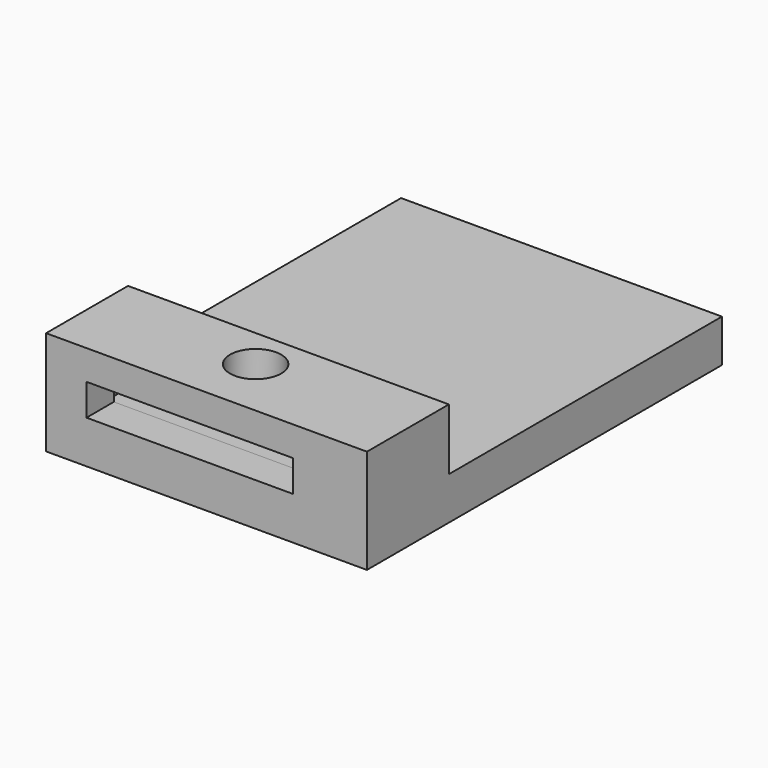
from build123d import *

# Parameters (mm, degrees)
F2_DEPTH  = 12.5
F3_W      = 94
F3_H      = 30
F3_R      = 7.5
F4_DEPTH  = 18
F0_W      = 75
F0_H      = 20
F5_DEPTH  = 9.2
F6_W      = 30.81081
F6_H      = 70
F7_DEPTH  = 14
F8_W      = 35
F8_H      = 50.010137
F9_DEPTH  = 8.5
F10_W     = 60.514386
F10_H     = 9.2464
F11_DEPTH = 15


with BuildPart() as f2:
    # F1 (on Top) → F2 (new body)
    with BuildSketch(Plane.XY):
        Polygon((50.962807, 81.197856), (-43.037193, 81.197856), (-43.037193, 16.197856), (-43.037193, 11.091857), (-43.037193, -48.802144), (50.962807, -48.802144), align=None)
    extrude(amount=-F2_DEPTH)

    # F3 (on face) → F4 (join)
    with BuildSketch(Plane.XY):
        with Locations((3.962807, -33.802144)):
            Rectangle(F3_W, F3_H)
        with Locations((3.962807, -30.819066)):
            Circle(F3_R, mode=Mode.SUBTRACT)
    extrude(amount=F4_DEPTH)

    # F0 (on Top) → F5 (cut)
    with BuildSketch(Plane.XY):
        with Locations((4.462807, -28.802144)):
            Rectangle(F0_W, F0_H)
    extrude(amount=F5_DEPTH, mode=Mode.SUBTRACT)

    # F6 (on face) → F7 (join)
    with BuildSketch(Plane(origin=(0, 0, -12.5), x_dir=(1, 0, 0), z_dir=(0, 0, -1))):
        with Locations((5, -16.029622)):
            Rectangle(F6_W, F6_H)
        Polygon((10, -41.029622), (5, -41.029622), (0, -41.029622), (0, -22.373011), (10, -22.373011), align=None, mode=Mode.SUBTRACT)
        Polygon((0, 8.970378), (5, 8.970378), (10, 8.970378), (10, -11.889663), (0, -11.889663), align=None, mode=Mode.SUBTRACT)
    extrude(amount=F7_DEPTH)

    # F8 (on face) → F9 (cut)
    with BuildSketch(Plane(origin=(0, 0, -12.5), x_dir=(1, 0, 0), z_dir=(0, 0, -1))):
        with Locations((2.905405, -15.991903)):
            Rectangle(F8_W, F8_H)
    extrude(amount=F9_DEPTH, mode=Mode.SUBTRACT)

    # F10 (on face) → F11 (cut)
    with BuildSketch(Plane.XZ.offset(48.802144)):
        with Locations((-0.93579, 4.68071)):
            Rectangle(F10_W, F10_H)
    extrude(amount=-F11_DEPTH, mode=Mode.SUBTRACT)


solid = f2.part
